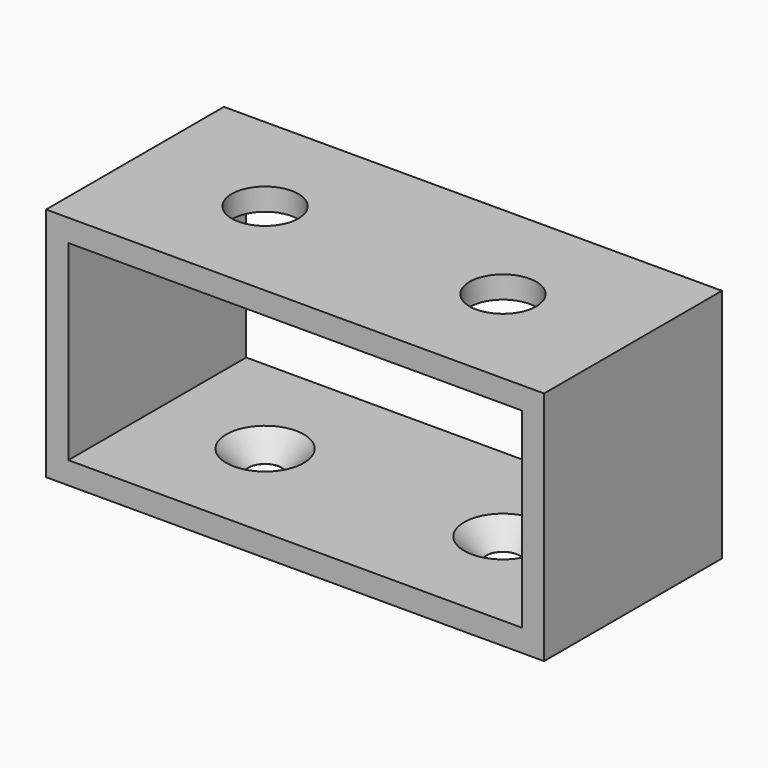
from build123d import *

# Parameters (mm, degrees)
SKETCH_W          = 56
SKETCH_H          = 26.5
PAD_DEPTH         = 25
SKETCH001_W       = 51
SKETCH001_H       = 21.5
POCKET_DEPTH      = 0.001
POCKET_DEPTH_BACK = 25.001
SKETCH002_R       = 3.75
POCKET001_DEPTH   = 3.5
SKETCH003_R       = 1.875
POCKET002_DEPTH   = 2.5
CHAMFER_SIZE      = 2.485


with BuildPart() as part:
    # Sketch → Pad (new body)
    with BuildSketch(Plane.XZ):
        Rectangle(SKETCH_W, SKETCH_H)
    extrude(amount=PAD_DEPTH)

    # Sketch001 → Pocket (cut, two sides)
    with BuildSketch(Plane.XZ) as pocket_sk:
        Rectangle(SKETCH001_W, SKETCH001_H)
    extrude(amount=-POCKET_DEPTH, mode=Mode.SUBTRACT)
    extrude(pocket_sk.sketch, amount=POCKET_DEPTH_BACK, mode=Mode.SUBTRACT)

    # Sketch002 (on DatumPlane) → Pocket001 (cut)
    with BuildSketch(Plane(origin=(0, 0, 13.25), x_dir=(-1, 0, 0), z_dir=(0, 0, 1))):
        with Locations((-13.375, 12.5)):
            Circle(SKETCH002_R)
        with Locations((13.375, 12.5)):
            Circle(SKETCH002_R)
    extrude(amount=-POCKET001_DEPTH, mode=Mode.SUBTRACT)

    # Sketch003 (on DatumPlane) → Pocket002 (cut)
    with BuildSketch(Plane(origin=(0, 0, -10.75), x_dir=(-1, 0, 0), z_dir=(0, 0, 1))):
        with Locations((-13.375, 12.5)):
            Circle(SKETCH003_R)
        with Locations((13.375, 12.5)):
            Circle(SKETCH003_R)
    extrude(amount=-POCKET002_DEPTH, mode=Mode.SUBTRACT)

    # Chamfer
    chamfer_edges = [part.edges().sort_by_distance(p)[0] for p in [
        (-11.5, -12.5, -10.75),
        (15.25, -12.5, -10.75),
    ]]
    chamfer(chamfer_edges, length=CHAMFER_SIZE)


solid = part.part
